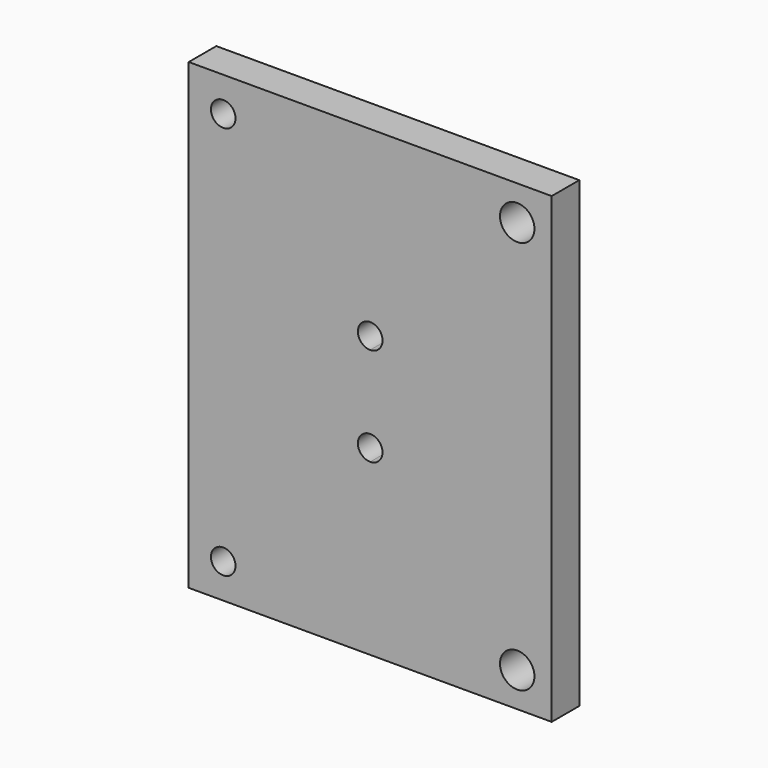
from build123d import *

# Parameters (mm, degrees)
F0_R     = 2.5
F0_R_2   = 3.5
F1_DEPTH = 7


with BuildPart() as f1:
    # F0 (on Front) → F1 (new body)
    with BuildSketch(Plane.XZ):
        with BuildLine():
            Line((-7.115597, 65.102255), (-43.965597, 65.102255))
            Line((-43.965597, 65.102255), (-43.965597, 18.102255))
            Line((-43.965597, 18.102255), (-7.115597, 18.102255))
            Line((-7.115597, 18.102255), (-7.115597, 25.602255))
            ThreePointArc((-7.115597, 25.602255), (-9.615597, 28.102255), (-7.115597, 30.602255))
            Line((-7.115597, 30.602255), (-7.115597, 65.102255))
        make_face()
        with Locations((-36.965597, 58.102255)):
            Circle(F0_R, mode=Mode.SUBTRACT)
        with BuildLine():
            Line((29.734403, 65.102255), (-7.115597, 65.102255))
            Line((-7.115597, 65.102255), (-7.115597, 30.602255))
            ThreePointArc((-7.115597, 30.602255), (-5.34783, 29.870022), (-4.615597, 28.102255))
            ThreePointArc((-4.615597, 28.102255), (-5.34783, 26.334488), (-7.115597, 25.602255))
            Line((-7.115597, 25.602255), (-7.115597, 18.102255))
            Line((-7.115597, 18.102255), (29.734403, 18.102255))
            Line((29.734403, 18.102255), (29.734403, 65.102255))
        make_face()
        with Locations((22.734403, 58.102255)):
            Circle(F0_R_2, mode=Mode.SUBTRACT)
        with BuildLine():
            Line((-7.115597, 18.102255), (-43.965597, 18.102255))
            Line((-43.965597, 18.102255), (-43.965597, -28.897745))
            Line((-43.965597, -28.897745), (-7.115597, -28.897745))
            Line((-7.115597, -28.897745), (-7.115597, 5.602255))
            ThreePointArc((-7.115597, 5.602255), (-9.615597, 8.102255), (-7.115597, 10.602255))
            Line((-7.115597, 10.602255), (-7.115597, 18.102255))
        make_face()
        with Locations((-36.965597, -21.897745)):
            Circle(F0_R, mode=Mode.SUBTRACT)
        with BuildLine():
            Line((29.734403, 18.102255), (-7.115597, 18.102255))
            Line((-7.115597, 18.102255), (-7.115597, 10.602255))
            ThreePointArc((-7.115597, 10.602255), (-5.34783, 9.870022), (-4.615597, 8.102255))
            ThreePointArc((-4.615597, 8.102255), (-5.34783, 6.334488), (-7.115597, 5.602255))
            Line((-7.115597, 5.602255), (-7.115597, -28.897745))
            Line((-7.115597, -28.897745), (29.734403, -28.897745))
            Line((29.734403, -28.897745), (29.734403, 18.102255))
        make_face()
        with Locations((22.734403, -21.897745)):
            Circle(F0_R_2, mode=Mode.SUBTRACT)
    extrude(amount=F1_DEPTH)


solid = f1.part
